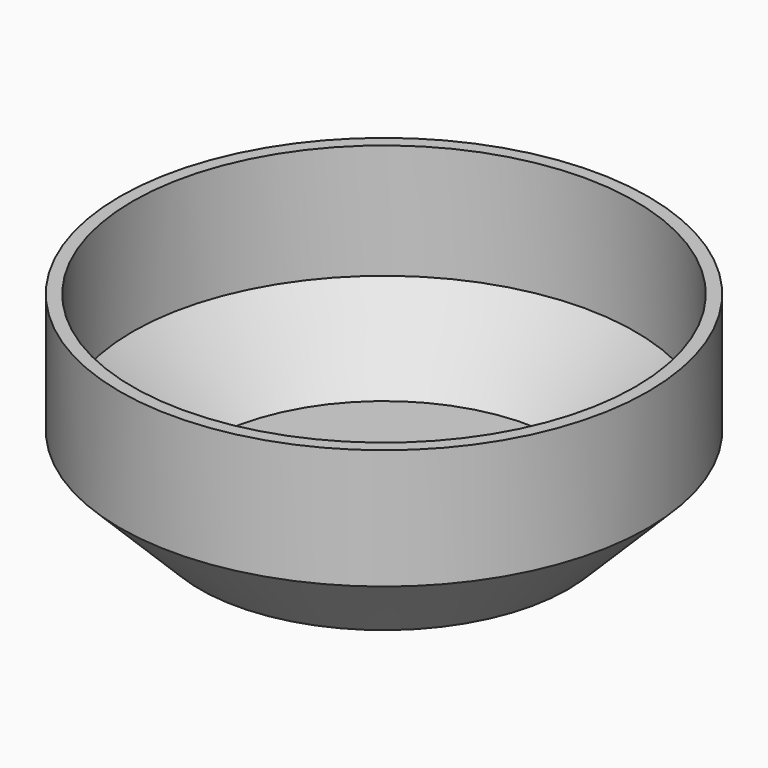
from build123d import *

# Parameters (mm, degrees)
F0_R     = 33
F1_DEPTH = 25
F2_SIZE  = 10
F3_T     = -1.6


with BuildPart() as f1:
    # F0 (on Top) → F1 (new body)
    with BuildSketch(Plane.XY):
        Circle(F0_R)
    extrude(amount=F1_DEPTH)

    # F2
    f2_edges = [f1.edges().sort_by_distance(p)[0] for p in [
        (-33, 0, 0),
    ]]
    chamfer(f2_edges, length=F2_SIZE)

    # F3
    f3_openings = [f1.faces().sort_by_distance(p)[0] for p in [
        (0, 0, 25),
    ]]
    offset(amount=F3_T, openings=f3_openings)


solid = f1.part
